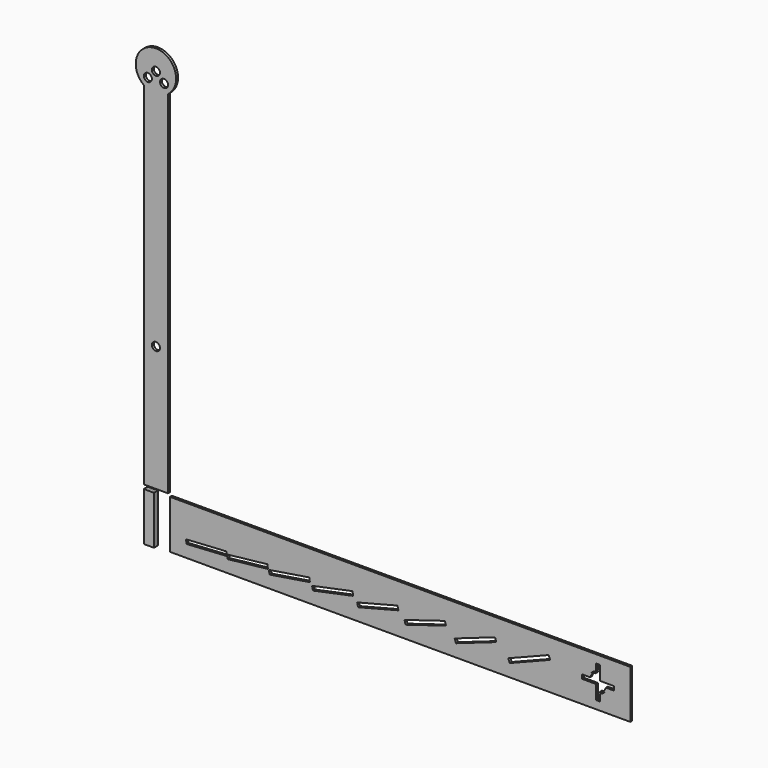
from build123d import *

# Parameters (mm, degrees)
F0_R     = 5
F1_DEPTH = 3
F0_W     = 570
F0_H     = 60
F2_DEPTH = 3


with BuildPart() as f1:
    # F0 (on Front) → F1 (new body)
    with BuildSketch(Plane.XZ):
        Polygon((-15, 39.753178), (-15, -20.246822), (-2.351508, -20.246822), (-2.351508, 9.753178), (-2.351508, 39.753178), align=None)
        with BuildLine():
            Line((-15, 480), (-15, 44.753178))
            Line((-15, 44.753178), (-2.5, 44.753178))
            ThreePointArc((-2.5, 44.753178), (-2.425721, 44.752075), (-2.351508, 44.748768))
            Line((-2.351508, 44.748768), (-2.351508, 44.753178))
            Line((-2.351508, 44.753178), (2.5, 44.753178))
            Line((2.5, 44.753178), (15, 44.753178))
            Line((15, 44.753178), (15, 480))
            ThreePointArc((15, 480), (0, 525), (-15, 480))
        make_face()
        with Locations((0, 200)):
            Circle(F0_R, mode=Mode.SUBTRACT)
        with Locations((-10, 490)):
            Circle(F0_R, mode=Mode.SUBTRACT)
        with Locations((10, 490)):
            Circle(F0_R, mode=Mode.SUBTRACT)
        with Locations((0, 500)):
            Circle(F0_R, mode=Mode.SUBTRACT)
    extrude(amount=F1_DEPTH)


with BuildPart() as f2:
    # F0 (on Front) → F2 (new body)
    with BuildSketch(Plane.XZ):
        with Locations((300, 9.753178)):
            Rectangle(F0_W, F0_H)
        Polygon((35.299283, -4.991035), (35, 0), (85, 2.998202), (85.299283, -1.992833), align=None, mode=Mode.SUBTRACT)
        Polygon((86.213652, -4.970057), (85.667274, 0), (135.667274, 5.496704), (136.213652, 0.526647), align=None, mode=Mode.SUBTRACT)
        Polygon((138.255755, -4.937509), (137.467715, 0), (187.467715, 7.980141), (188.255755, 3.042632), align=None, mode=Mode.SUBTRACT)
        Polygon((191.972288, -4.894523), (190.950698, 0), (240.950698, 10.436057), (241.972288, 5.541534), align=None, mode=Mode.SUBTRACT)
        Polygon((247.940159, -4.842576), (246.695388, 0), (296.695388, 12.852362), (297.940159, 8.009786), align=None, mode=Mode.SUBTRACT)
        Polygon((306.773132, -4.783364), (305.317308, 0), (355.317308, 15.217578), (356.773132, 10.434213), align=None, mode=Mode.SUBTRACT)
        Polygon((369.128901, -4.718672), (367.475379, 0), (417.475379, 17.521056), (419.128901, 12.802384), align=None, mode=Mode.SUBTRACT)
        Polygon((435.716668, -4.650257), (433.879521, 0), (483.879521, 19.753178), (485.716668, 15.102921), align=None, mode=Mode.SUBTRACT)
        with BuildLine():
            Line((547.5, 12.253178), (565, 12.253178))
            Line((565, 12.253178), (565, 7.253178))
            Line((565, 7.253178), (554.682458, 7.253178))
            ThreePointArc((554.682458, 7.253178), (552.415672, 3.044392), (548.454241, 0.368711))
            ThreePointArc((548.454241, 0.368711), (547.831804, 0.685053), (547.5, 0.07072))
            Line((547.5, 0.07072), (547.5, -0.958965))
            ThreePointArc((547.5, -0.958965), (550.344367, 0.138723), (552.778175, 1.975003))
            Line((552.778175, 1.975003), (553.131728, 1.62145))
            ThreePointArc((553.131728, 1.62145), (550.536285, -0.326482), (547.5, -1.471794))
            Line((547.5, -1.471794), (547.5, -10.246822))
            Line((547.5, -10.246822), (542.5, -10.246822))
            Line((542.5, -10.246822), (542.5, 7.253178))
            Line((542.5, 7.253178), (525, 7.253178))
            Line((525, 7.253178), (525, 12.253178))
            Line((525, 12.253178), (535.317542, 12.253178))
            ThreePointArc((535.317542, 12.253178), (537.584328, 16.461964), (541.545759, 19.137645))
            ThreePointArc((541.545759, 19.137645), (542.031653, 18.798729), (542.5, 19.161508))
            Line((542.5, 19.161508), (542.5, 19.435636))
            Line((542.5, 19.435636), (542.5, 20.465321))
            ThreePointArc((542.5, 20.465321), (539.655633, 19.367633), (537.221825, 17.531353))
            Line((537.221825, 17.531353), (536.868272, 17.884906))
            ThreePointArc((536.868272, 17.884906), (539.463715, 19.832838), (542.5, 20.97815))
            Line((542.5, 20.97815), (542.5, 29.753178))
            Line((542.5, 29.753178), (547.5, 29.753178))
            Line((547.5, 29.753178), (547.5, 12.253178))
        make_face(mode=Mode.SUBTRACT)
        Polygon((-15, 39.753178), (-15, -20.246822), (-2.351508, -20.246822), (-2.351508, 9.753178), (-2.351508, 39.753178), align=None)
    extrude(amount=-F2_DEPTH)


solid = Compound([f1.part, f2.part])
